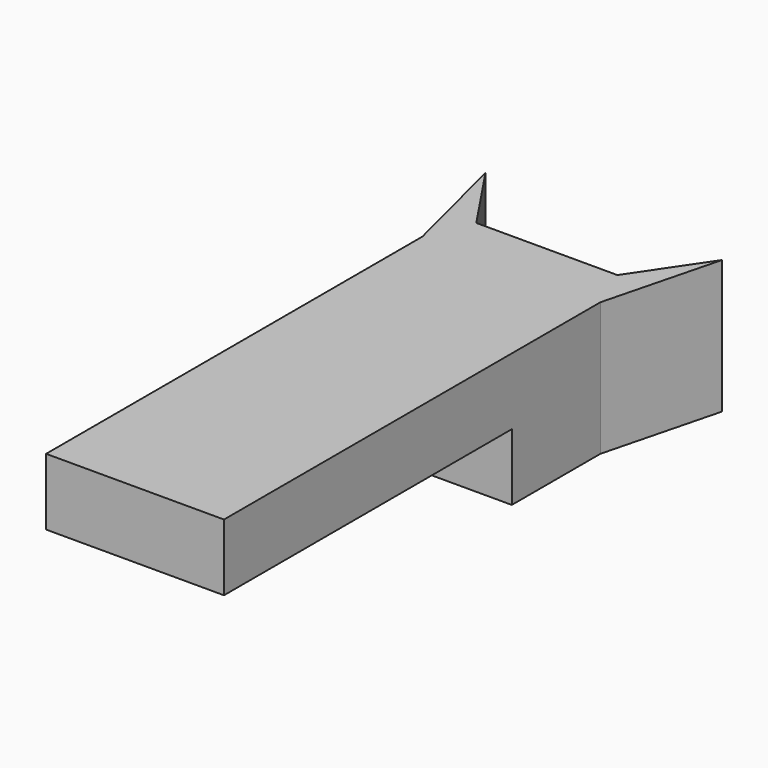
from build123d import *

# Parameters (mm, degrees)
F1_DEPTH = 15.24
F2_W     = 19.2376272753
F2_H     = 15.0951566175
F3_DEPTH = 5.08
F4_SIZE2 = 4.3994090512
F4_SIZE  = 7.62
F5_W     = 20.32
F5_H     = 41.094693502
F6_DEPTH = 7.62


with BuildPart() as f1:
    # F0 (on Top) → F1 (new body)
    with BuildSketch(Plane.XY):
        Polygon((-13.5031091049, 27.9268901795), (-10.1887094788, 14.7920455784), (-7.6487094788, 14.7920455784), (-7.6487094788, 19.1914546296), align=None)
        Polygon((-7.6487094788, 14.7920455784), (-10.1887094788, 14.7920455784), (-10.1887094788, -38.9519235189), (10.1312905212, -38.9519235189), (10.1312905212, 14.7920455784), (7.5912905212, 14.7920455784), (7.5912905212, 10.3926365271), (-0.0287094788, 5.9932274759), (-7.6487094788, 10.3926365271), align=None)
        Polygon((7.5912905212, 14.7920455784), (10.1312905212, 14.7920455784), (13.5031156242, 27.9268901795), (7.5912905212, 19.1914546296), align=None)
    extrude(amount=F1_DEPTH)

    # F2 (on face) → F3 (join)
    with BuildSketch(Plane.XY.offset(15.24)):
        with Locations((-0.1635341905, 12.2919357382)):
            Rectangle(F2_W, F2_H)
    extrude(amount=-F3_DEPTH)

    # F4
    f4_edges = [f1.edges().sort_by_distance(p)[0] for p in [
        (-0.026579, 19.839514, 10.16),
    ]]
    f4_side = f1.faces().sort_by_distance((-0.028648, 13.956011, 10.16))[0]
    chamfer(f4_edges, length=F4_SIZE, length2=F4_SIZE2, reference=f4_side)

    # F5 (on face) → F6 (cut)
    with BuildSketch(Plane(origin=(0, 0, 0), x_dir=(1, 0, 0), z_dir=(0, 0, -1))):
        with Locations((-0.0287094788, 18.4045767679)):
            Rectangle(F5_W, F5_H)
    extrude(amount=-F6_DEPTH, mode=Mode.SUBTRACT)


solid = f1.part
